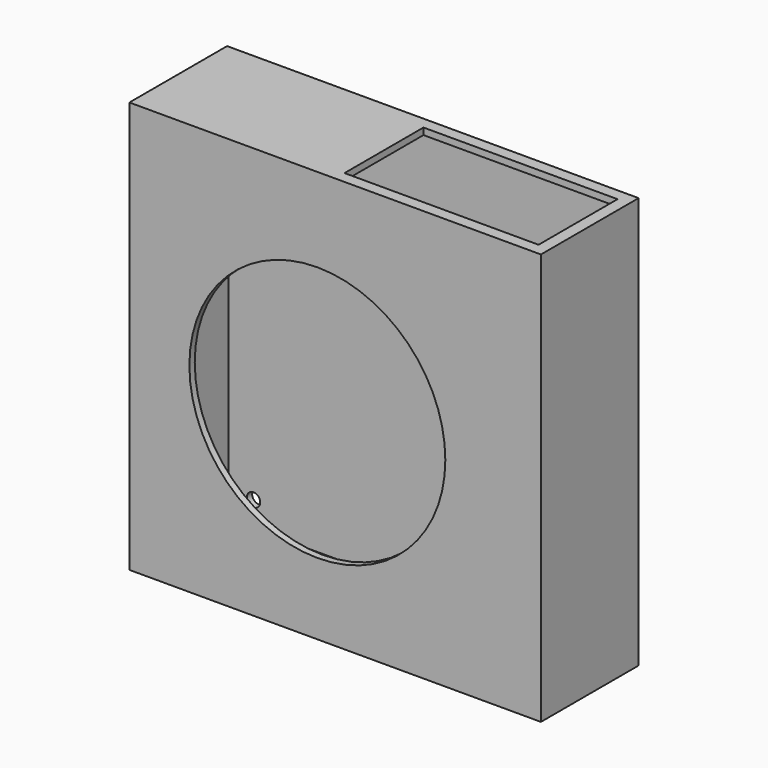
from build123d import *

# Parameters (mm, degrees)
SKETCH004_W   = 123
SKETCH004_H   = 123
SKETCH004_R   = 2
PAD002_DEPTH  = 2
SKETCH005_W   = 2
SKETCH005_H   = 123
PAD003_DEPTH  = 32.5
SKETCH006_W   = 123
SKETCH006_H   = 123
SKETCH006_R   = 38.25
PAD004_DEPTH  = 2
SKETCH007_W   = 61
SKETCH007_H   = 32.5
SKETCH007_W_2 = 58
SKETCH007_H_2 = 29.5
PAD005_DEPTH  = 2


with BuildPart() as part:
    # Sketch004 → Pad002 (new body)
    with BuildSketch(Plane.XZ):
        with Locations((0, 2)):
            Rectangle(SKETCH004_W, SKETCH004_H)
        with Locations((-52, 52)):
            Circle(SKETCH004_R, mode=Mode.SUBTRACT)
        with Locations((-52, -52)):
            Circle(SKETCH004_R, mode=Mode.SUBTRACT)
        with Locations((52, -52)):
            Circle(SKETCH004_R, mode=Mode.SUBTRACT)
    extrude(amount=-PAD002_DEPTH)

    # Sketch005 (on Face8 of Pad002) → Pad003 (join)
    with BuildSketch(Plane.XZ):
        Polygon((-61.5, -59.5), (-59.5, -59.5), (-59.5, 61.5), (-1.5, 61.5), (-1.5, 63.5), (-61.5, 63.5), align=None)
        with Locations((60.5, 2)):
            Rectangle(SKETCH005_W, SKETCH005_H)
    extrude(amount=PAD003_DEPTH)

    # Sketch006 → Pad004 (join)
    with BuildSketch(Plane.XZ.offset(32.5)):
        with Locations((0, 2)):
            Rectangle(SKETCH006_W, SKETCH006_H)
        with Locations((-5.32, 0.16)):
            Circle(SKETCH006_R, mode=Mode.SUBTRACT)
    extrude(amount=PAD004_DEPTH)

    # Sketch007 (on Face9 of Pad004) → Pad005 (join)
    with BuildSketch(Plane(origin=(0, 0, 63.5), x_dir=(-1, 0, 0), z_dir=(0, 0, 1))):
        with Locations((-29, 16.25)):
            Rectangle(SKETCH007_W, SKETCH007_H)
        with Locations((-29, 16.25)):
            Rectangle(SKETCH007_W_2, SKETCH007_H_2, mode=Mode.SUBTRACT)
    extrude(amount=-PAD005_DEPTH)


solid = part.part
